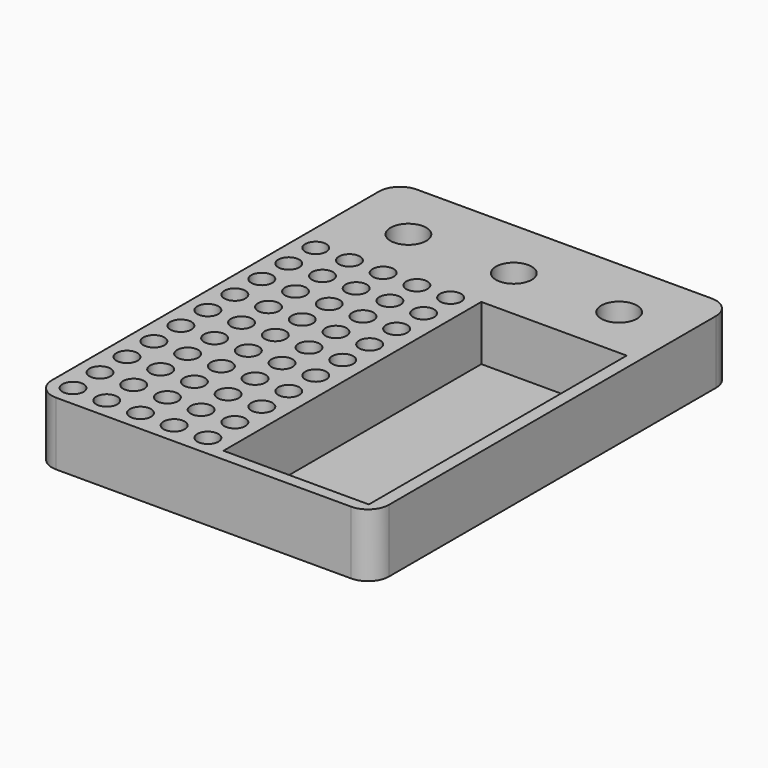
from build123d import *

# Parameters (mm, degrees)
F0_W     = 80
F0_H     = 107
F0_R     = 2.5
F0_W_2   = 34.5
F0_H_2   = 76.5
F0_R_2   = 4.25
F1_DEPTH = 15
F2_W     = 80
F2_H     = 107
F3_DEPTH = 2
F4_R     = 5


with BuildPart() as f1:
    # F0 (on Top) → F1 (new body)
    with BuildSketch(Plane.XY):
        with Locations((40, 53.5)):
            Rectangle(F0_W, F0_H)
        with Locations((5, 5)):
            Circle(F0_R, mode=Mode.SUBTRACT)
        with Locations((5, 13)):
            Circle(F0_R, mode=Mode.SUBTRACT)
        with Locations((13, 5)):
            Circle(F0_R, mode=Mode.SUBTRACT)
        with Locations((13, 13)):
            Circle(F0_R, mode=Mode.SUBTRACT)
        with Locations((5, 21)):
            Circle(F0_R, mode=Mode.SUBTRACT)
        with Locations((13, 21)):
            Circle(F0_R, mode=Mode.SUBTRACT)
        with Locations((21, 5)):
            Circle(F0_R, mode=Mode.SUBTRACT)
        with Locations((29, 5)):
            Circle(F0_R, mode=Mode.SUBTRACT)
        with Locations((21, 13)):
            Circle(F0_R, mode=Mode.SUBTRACT)
        with Locations((29, 13)):
            Circle(F0_R, mode=Mode.SUBTRACT)
        with Locations((37, 5)):
            Circle(F0_R, mode=Mode.SUBTRACT)
        with Locations((37, 13)):
            Circle(F0_R, mode=Mode.SUBTRACT)
        with Locations((21, 21)):
            Circle(F0_R, mode=Mode.SUBTRACT)
        with Locations((29, 21)):
            Circle(F0_R, mode=Mode.SUBTRACT)
        with Locations((37, 21)):
            Circle(F0_R, mode=Mode.SUBTRACT)
        with Locations((5, 29)):
            Circle(F0_R, mode=Mode.SUBTRACT)
        with Locations((5, 37)):
            Circle(F0_R, mode=Mode.SUBTRACT)
        with Locations((13, 29)):
            Circle(F0_R, mode=Mode.SUBTRACT)
        with Locations((13, 37)):
            Circle(F0_R, mode=Mode.SUBTRACT)
        with Locations((5, 45)):
            Circle(F0_R, mode=Mode.SUBTRACT)
        with Locations((5, 53)):
            Circle(F0_R, mode=Mode.SUBTRACT)
        with Locations((13, 45)):
            Circle(F0_R, mode=Mode.SUBTRACT)
        with Locations((13, 53)):
            Circle(F0_R, mode=Mode.SUBTRACT)
        with Locations((21, 29)):
            Circle(F0_R, mode=Mode.SUBTRACT)
        with Locations((29, 29)):
            Circle(F0_R, mode=Mode.SUBTRACT)
        with Locations((21, 37)):
            Circle(F0_R, mode=Mode.SUBTRACT)
        with Locations((29, 37)):
            Circle(F0_R, mode=Mode.SUBTRACT)
        with Locations((37, 29)):
            Circle(F0_R, mode=Mode.SUBTRACT)
        with Locations((37, 37)):
            Circle(F0_R, mode=Mode.SUBTRACT)
        with Locations((21, 45)):
            Circle(F0_R, mode=Mode.SUBTRACT)
        with Locations((29, 45)):
            Circle(F0_R, mode=Mode.SUBTRACT)
        with Locations((21, 53)):
            Circle(F0_R, mode=Mode.SUBTRACT)
        with Locations((29, 53)):
            Circle(F0_R, mode=Mode.SUBTRACT)
        with Locations((37, 45)):
            Circle(F0_R, mode=Mode.SUBTRACT)
        with Locations((37, 53)):
            Circle(F0_R, mode=Mode.SUBTRACT)
        with Locations((59.75, 41)):
            Rectangle(F0_W_2, F0_H_2, mode=Mode.SUBTRACT)
        with Locations((5, 61)):
            Circle(F0_R, mode=Mode.SUBTRACT)
        with Locations((13, 61)):
            Circle(F0_R, mode=Mode.SUBTRACT)
        with Locations((5, 69)):
            Circle(F0_R, mode=Mode.SUBTRACT)
        with Locations((5, 77)):
            Circle(F0_R, mode=Mode.SUBTRACT)
        with Locations((13, 69)):
            Circle(F0_R, mode=Mode.SUBTRACT)
        with Locations((13, 77)):
            Circle(F0_R, mode=Mode.SUBTRACT)
        with Locations((21, 61)):
            Circle(F0_R, mode=Mode.SUBTRACT)
        with Locations((29, 61)):
            Circle(F0_R, mode=Mode.SUBTRACT)
        with Locations((37, 61)):
            Circle(F0_R, mode=Mode.SUBTRACT)
        with Locations((21, 69)):
            Circle(F0_R, mode=Mode.SUBTRACT)
        with Locations((29, 69)):
            Circle(F0_R, mode=Mode.SUBTRACT)
        with Locations((21, 77)):
            Circle(F0_R, mode=Mode.SUBTRACT)
        with Locations((29, 77)):
            Circle(F0_R, mode=Mode.SUBTRACT)
        with Locations((37, 69)):
            Circle(F0_R, mode=Mode.SUBTRACT)
        with Locations((37, 77)):
            Circle(F0_R, mode=Mode.SUBTRACT)
        with Locations((15, 92)):
            Circle(F0_R_2, mode=Mode.SUBTRACT)
        with Locations((40, 92)):
            Circle(F0_R_2, mode=Mode.SUBTRACT)
        with Locations((65, 92)):
            Circle(F0_R_2, mode=Mode.SUBTRACT)
    extrude(amount=F1_DEPTH)

    # F2 (on face) → F3 (join)
    with BuildSketch(Plane(origin=(0, 0, 0), x_dir=(1, 0, 0), z_dir=(0, 0, -1))):
        with Locations((40, -53.5)):
            Rectangle(F2_W, F2_H)
    extrude(amount=-F3_DEPTH)

    # F4
    f4_edges = [f1.edges().sort_by_distance(p)[0] for p in [
        (0, 107, 7.5),
        (0, 0, 7.5),
        (80, 0, 7.5),
        (80, 107, 7.5),
    ]]
    fillet(f4_edges, radius=F4_R)


solid = f1.part
